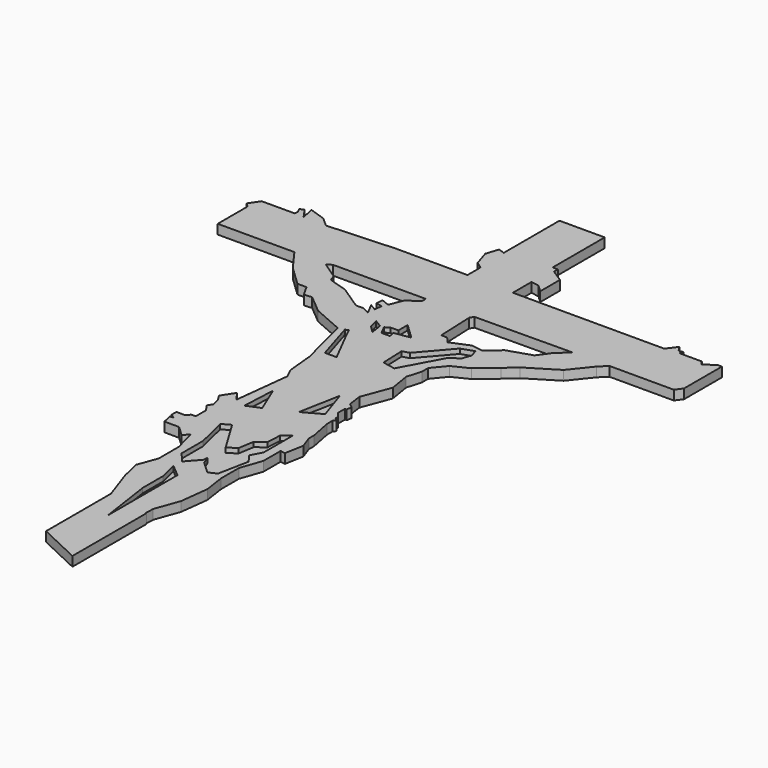
from build123d import *

# Parameters (mm, degrees)
F1_DEPTH = 2.54
F3_DEPTH = 1.27


with BuildPart() as f1:
    # F0 (on Top) → F1 (new body)
    with BuildSketch(Plane.XY):
        Polygon((-5.99673, 83.571151), (-9.566288, 83.571151), (-9.564848, 65.04236), (-11.255961, 65.590829), (-12.323958, 62.297836), (-10.988962, 58.114849), (-9.208967, 56.868851), (-9.208967, 52.507862), (-28.254911, 52.507862), (-46.130445, 51.539652), (-48.577391, 53.714711), (-52.859541, 55.142097), (-52.111864, 51.607624), (-54.069419, 54.367231), (-55.102572, 53.850655), (-54.558806, 52.763123), (-54.558806, 51.743563), (-63.394994, 51.743563), (-65.230206, 49.024738), (-64.182244, 48.005179), (-64.182244, 38.095158), (-43.767493, 38.095158), (-39.561503, 32.311924), (-34.367394, 27.360754), (-31.944651, 27.360754), (-30.303439, 24.390941), (-28.193308, 24.547247), (-23.425976, 20.561444), (-15.376217, 17.044559), (-13.409751, 9.047142), (-11.93771, 3.509463), (-11.236738, -3.850742), (-9.969342, -6.448674), (-11.664802, -21.35702), (-13.477189, -18.843064), (-15.640361, -22.175519), (-14.654967, -23.747342), (-14.052681, -25.905531), (-14.905918, -27.210483), (-13.600967, -29.017339), (-13.600967, -32.430287), (-14.805538, -32.430287), (-15.558394, -33.434097), (-17.967535, -33.434097), (-17.967535, -34.989998), (-16.90002, -35.755871), (-17.736137, -35.934653), (-17.215339, -38.370281), (-13.297983, -38.370281), (-10.618562, -40.882237), (-9.316566, -39.493442), (-7.754172, -45.395821), (-7.754172, -52.079398), (-9.663765, -57.28738), (-8.44857, -62.408563), (-5.591176, -70.663214), (-5.591176, -92.272595), (5.670371, -97.587809), (5.670371, -73.003325), (5.461258, -72.994612), (5.562026, -70.576176), (7.879694, -64.127013), (8.786608, -56.569401), (7.964388, -50.926384), (7.964388, -45.009229), (9.937003, -39.348282), (9.937003, -33.599641), (11.227012, -33.839643), (12.160189, -28.823817), (10.993717, -25.557697), (10.993717, -23.807989), (9.857128, -18.069858), (9.857128, -16.255604), (10.40955, -15.533206), (9.666048, -14.964646), (9.666048, -14.221144), (8.525787, -12.777876), (8.525787, -10.393159), (8.966282, -10.459901), (9.184958, -9.016633), (8.004103, -8.09819), (7.499981, -4.351123), (10.348841, 3.209313), (9.447522, 8.775694), (10.561009, 12.672896), (10.561009, 14.69109), (13.414318, 18.170735), (17.659483, 20.258522), (22.33053, 24.186341), (25.333907, 26.873572), (33.117071, 31.639051), (37.473869, 37.09504), (39.435845, 38.987648), (56.547906, 38.987648), (57.849914, 40.785652), (57.849914, 53.376469), (56.772062, 53.376469), (53.881899, 51.44969), (53.137895, 52.565694), (47.371875, 52.565694), (47.103252, 52.694425), (47.60588, 53.460974), (46.295214, 53.379152), (45.425359, 54.808315), (43.448135, 52.189693), (24.795312, 52.189693), (3.136824, 52.189693), (3.136824, 58.377832), (5.297991, 58.025848), (7.166984, 56.245852), (7.166984, 62.831834), (3.844139, 64.967824), (3.84404, 66.245608), (2.480235, 66.245608), (2.480235, 74.858069), (2.480235, 83.571151), (1.856298, 83.571151), (-2.712736, 83.571151), align=None)
        Polygon((-33.917904, 38.634431), (-9.260418, 38.714487), (-9.260418, 37.43358), (-12.302576, 35.352103), (-13.743598, 31.749547), (-15.91065, 32.616367), (-16.065244, 30.788867), (-14.384052, 30.388582), (-14.624221, 28.387163), (-16.385471, 29.427901), (-14.784336, 26.305687), (-16.785754, 27.346425), (-18.787174, 27.346425), (-25.031602, 31.509377), (-29.995121, 33.030454), (-30.635575, 34.711648), (-35.198811, 37.833862), align=None, mode=Mode.SUBTRACT)
        Polygon((3.687193, 38.706526), (29.651927, 38.93036), (26.647935, 36.244635), (24.258427, 32.959059), (17.985972, 30.918023), (14.451494, 27.881358), (11.339603, 28.305979), (6.457049, 26.281506), (5.043174, 27.942025), (3.473167, 27.876608), (3.062122, 37.741698), align=None, mode=Mode.SUBTRACT)
    extrude(amount=F1_DEPTH)

    # F2 (on face) → F3 (cut)
    with BuildSketch(Plane.XY.offset(2.54)):
        Polygon((-4.8546, 24.076449), (-6.915532, 24.069758), (-8.103781, 23.315949), (-6.878824, 20.989446), (-4.647635, 20.989446), (-4.907427, 22.513702), (-0.728107, 23.226019), (-4.864617, 27.161606), align=None)
        Polygon((-9.105355, 23.257034), (-11.049587, 24.435354), (-10.519342, 22.019794), (-8.575111, 20.075563), align=None)
        Polygon((3.343296, 17.716315), (1.521392, 17.169744), (1.764312, 10.853812), (5.165199, 10.18578), (10.752369, 20.509901), (13.363765, 22.574725), (14.128965, 24.833885), (13.485226, 26.765103), (10.2058, 25.671961), align=None)
        Polygon((-12.932378, 17.716315), (-13.782599, 17.412664), (-10.487199, 6.630232), (-7.351074, 6.630232), (-11.474854, 14.679809), align=None)
        Polygon((-5.124527, -20.906745), (-8.254354, -13.371979), (-8.68202, -22.384473), align=None)
        Polygon((6.815179, -14.878932), (4.033112, -6.532729), (1.946561, -17.54508), align=None)
        Polygon((0, -39.493442), (-5.285312, -30.723813), (-7.478859, -31.963766), (-5.484725, -40.139712), (-5.484725, -47.318593), (-3.091765, -50.110381), (-0.100565, -46.720352), (0, -45.483258), (0.805745, -47.645368), (4.048907, -50.656874), (6.133798, -49.730256), (7.755378, -41.54513), (6.056579, -39.228588), (7.600942, -36.294296), (7.600942, -26.642028), (5.516052, -28.26361), (5.284398, -32.124516), (2.967853, -33.900537), (2.285578, -38.115961), align=None)
        Polygon((0, -55.518486), (-3.237477, -52.805621), (-2.076812, -57.696996), (-2.076812, -64.513773), (0, -78.64923), (0, -66.22716), align=None)
    extrude(amount=-F3_DEPTH, mode=Mode.SUBTRACT)


solid = f1.part
